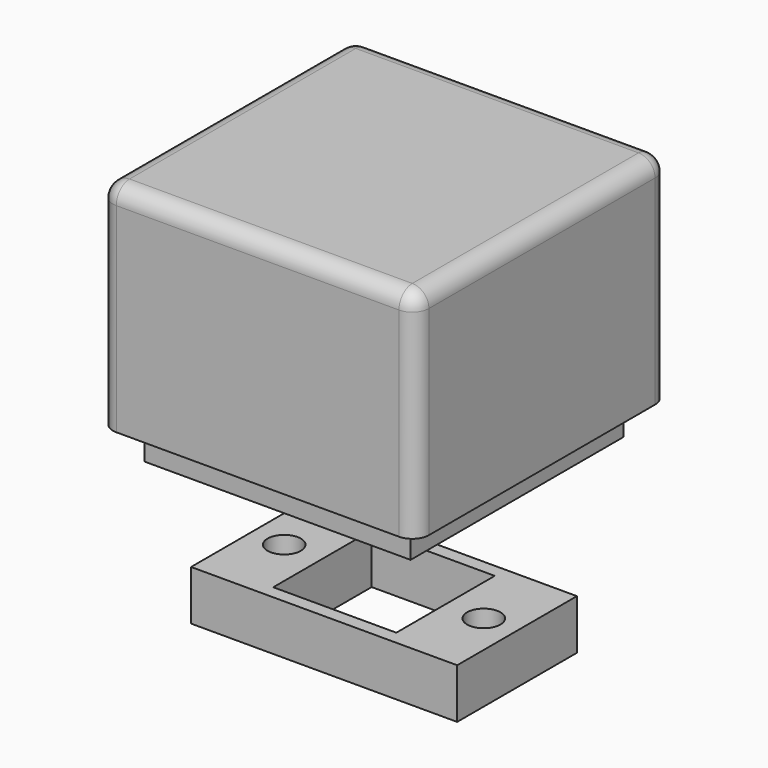
from build123d import *

# Parameters (mm, degrees)
F0_W      = 16
F0_H      = 9
F0_R      = 1
F0_W_2    = 7.4
F0_H_2    = 7.4
F1_DEPTH  = 3
F3_W      = 4
F3_H      = 4
F4_DEPTH  = 3
F5_W      = 16
F5_H      = 16
F5_R      = 1.5
F5_R_2    = 1.1
F6_DEPTH  = 5
F8_W      = 19
F8_H      = 19
F9_DEPTH  = 13
F10_W     = 17
F10_H     = 17
F11_DEPTH = 8
F12_R     = 0.6
F13_DEPTH = 4
F14_R     = 1
F15_W     = 7.4
F15_H     = 7.4
F16_DEPTH = 3.5


with BuildPart() as f1:
    # F0 (on Top) → F1 (new body)
    with BuildSketch(Plane.XY):
        Rectangle(F0_W, F0_H)
        with Locations((-6, 0)):
            Circle(F0_R, mode=Mode.SUBTRACT)
        Rectangle(F0_W_2, F0_H_2, mode=Mode.SUBTRACT)
        with Locations((6, 0)):
            Circle(F0_R, mode=Mode.SUBTRACT)
    extrude(amount=F1_DEPTH)


with BuildPart() as f4:
    # F3 (on offset) → F4 (new body)
    with BuildSketch(Plane.XY.offset(10)):
        Rectangle(F3_W, F3_H)
    extrude(amount=-F4_DEPTH)


with BuildPart() as f6:
    # F5 (on offset) → F6 (new body)
    with BuildSketch(Plane.XY.offset(10)):
        Rectangle(F5_W, F5_H)
        with Locations((0, -6)):
            Circle(F5_R, mode=Mode.SUBTRACT)
        with Locations((0, 6)):
            Circle(F5_R_2, mode=Mode.SUBTRACT)
    extrude(amount=F6_DEPTH)

    # F15 (on face) → F16 (cut)
    with BuildSketch(Plane(origin=(0, 0, 10), x_dir=(1, 0, 0), z_dir=(0, 0, -1))):
        Rectangle(F15_W, F15_H)
    extrude(amount=-F16_DEPTH, mode=Mode.SUBTRACT)


with BuildPart() as f9:
    # F8 (on offset) → F9 (new body)
    with BuildSketch(Plane.XY.offset(12)):
        Rectangle(F8_W, F8_H)
    extrude(amount=F9_DEPTH)

    # F10 (on face) → F11 (cut)
    with BuildSketch(Plane(origin=(0, 0, 12), x_dir=(1, 0, 0), z_dir=(0, 0, -1))):
        Rectangle(F10_W, F10_H)
    extrude(amount=-F11_DEPTH, mode=Mode.SUBTRACT)

    # F12 (on face) → F13 (cut)
    with BuildSketch(Plane(origin=(0, 0, 20), x_dir=(1, 0, 0), z_dir=(0, 0, -1))):
        with Locations((0, 6)):
            Circle(F12_R)
        with Locations((0, -6)):
            Circle(F12_R)
    extrude(amount=-F13_DEPTH, mode=Mode.SUBTRACT)

    # F14
    f14_edges = [f9.edges().sort_by_distance(p)[0] for p in [
        (-9.5, -9.5, 18.5),
        (9.5, -9.5, 18.5),
        (-9.5, 9.5, 18.5),
        (9.5, 9.5, 18.5),
        (0, -9.5, 25),
        (9.5, 0, 25),
        (0, 9.5, 25),
        (-9.5, 0, 25),
    ]]
    fillet(f14_edges, radius=F14_R)


solid = Compound([f1.part, f4.part, f6.part, f9.part])
